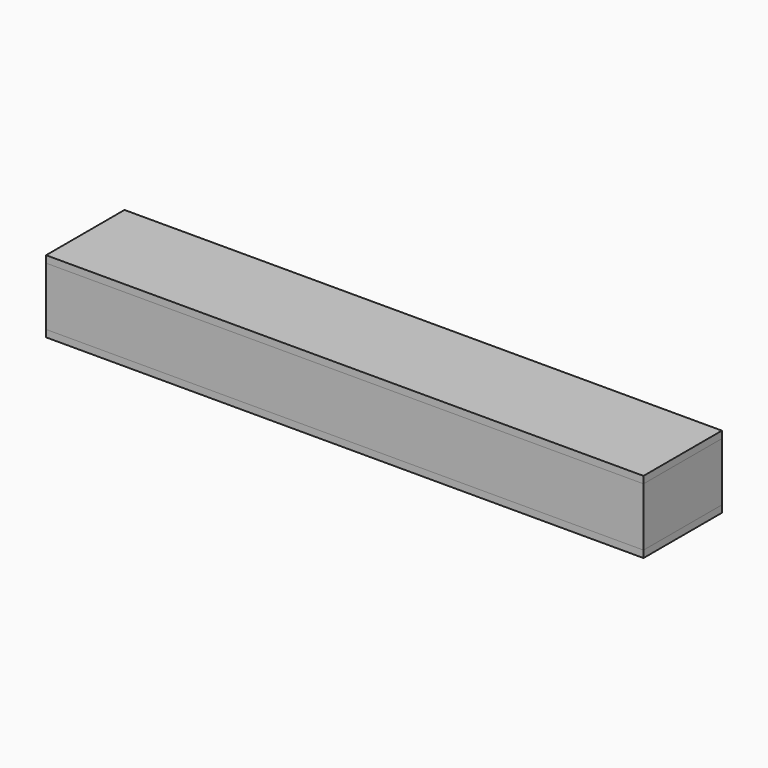
from build123d import *

# Parameters (mm, degrees)
F0_W     = 203.2
F0_H     = 19.84375
F1_DEPTH = 33.3375
F2_W     = 203.2
F2_H     = 2.38125
F3_DEPTH = 33.3375


with BuildPart() as f1:
    # F0 (on Front) → F1 (new body)
    with BuildSketch(Plane.XZ):
        with Locations((101.6, 9.921875)):
            Rectangle(F0_W, F0_H)
    extrude(amount=F1_DEPTH)


with BuildPart() as f3:
    # F2 (on Front) → F3 (new body)
    with BuildSketch(Plane.XZ):
        with Locations((101.6, 21.034375)):
            Rectangle(F2_W, F2_H)
        with Locations((101.6, -1.190625)):
            Rectangle(F2_W, F2_H)
    extrude(amount=F3_DEPTH)


solid = Compound([f1.part, f3.part])
